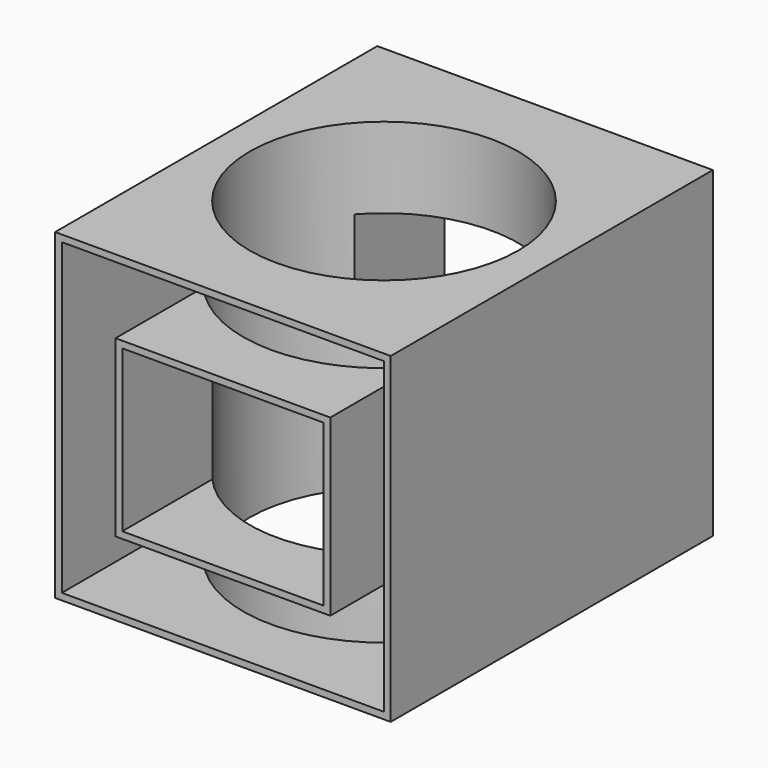
from build123d import *

# Parameters (mm, degrees)
F0_W     = 125
F0_H     = 120
F0_W_2   = 75
F0_H_2   = 60
F1_DEPTH = 150
F2_R     = 50
F3_DEPTH = 120.001
F4_T     = -2.5


with BuildPart() as f1:
    # F0 (on Front) → F1 (new body)
    with BuildSketch(Plane.XZ):
        with Locations((62.5, 60)):
            Rectangle(F0_W, F0_H)
        with Locations((62.5, 60)):
            Rectangle(F0_W_2, F0_H_2, mode=Mode.SUBTRACT)
    extrude(amount=F1_DEPTH)

    # F2 (on face) → F3 (cut, through all)
    with BuildSketch(Plane.XY.offset(120)):
        with Locations((62.5, -75)):
            Circle(F2_R)
    extrude(amount=-F3_DEPTH, mode=Mode.SUBTRACT)

    # F4
    f4_openings = [f1.faces().sort_by_distance(p)[0] for p in [
        (1.732772, -150, 60),
        (1.732772, 0, 60),
    ]]
    offset(amount=F4_T, openings=f4_openings, kind=Kind.INTERSECTION)


solid = f1.part
